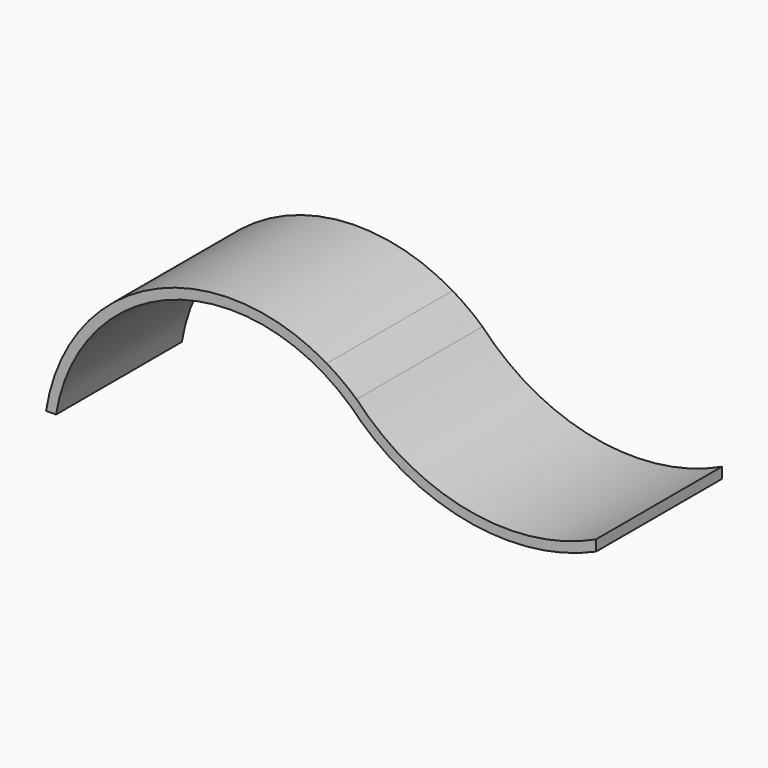
from build123d import *

# Parameters (mm, degrees)
F1_DEPTH = 304.8


with BuildPart() as f1:
    # F0 (on Front) → F1 (new body)
    with BuildSketch(Plane.XZ):
        with BuildLine():
            Line((-722.502741993, -39.4907763148), (-703.2184218951, -39.4907763148))
            ThreePointArc((-703.2184218951, -39.4907763148), (-476.896481725, 230.1239850185), (-131.9620053887, 159.8819237894))
            ThreePointArc((-131.9620053887, 159.8819237894), (-156.6515196206, 188.0467023302), (-178.7360867864, 218.297301603))
            ThreePointArc((-178.7360867864, 218.297301603), (-519.0584683646, 233.7655456714), (-722.502741993, -39.4907763148))
        make_face()
        with BuildLine():
            ThreePointArc((-131.9620053887, 159.8819237894), (-126.424400558, 154.7380651604), (-121.0010603223, 149.4738720081))
            Line((-121.0010603223, 149.4738720081), (-121.0010603223, 176.0056181349))
            ThreePointArc((-121.0010603223, 176.0056181349), (-148.8244082157, 198.5769153845), (-178.7360867864, 218.297301603))
            ThreePointArc((-178.7360867864, 218.297301603), (-156.6515196206, 188.0467023302), (-131.9620053887, 159.8819237894))
        make_face()
        with BuildLine():
            ThreePointArc((-113.337686304, 141.6239741566), (103.6189967821, 35.9377248404), (342.9436439748, 66.9780031307))
            Line((342.9436439748, 66.9780031307), (342.6787020659, 87.8170613871))
            ThreePointArc((342.6787020659, 87.8170613871), (96.5037725153, 56.540202497), (-121.0010603223, 176.0056181349))
            Line((-121.0010603223, 176.0056181349), (-121.0010603223, 149.4738720081))
            ThreePointArc((-121.0010603223, 149.4738720081), (-117.1381012296, 145.5794521003), (-113.337686304, 141.6239741566))
        make_face()
    extrude(amount=F1_DEPTH)


solid = f1.part
